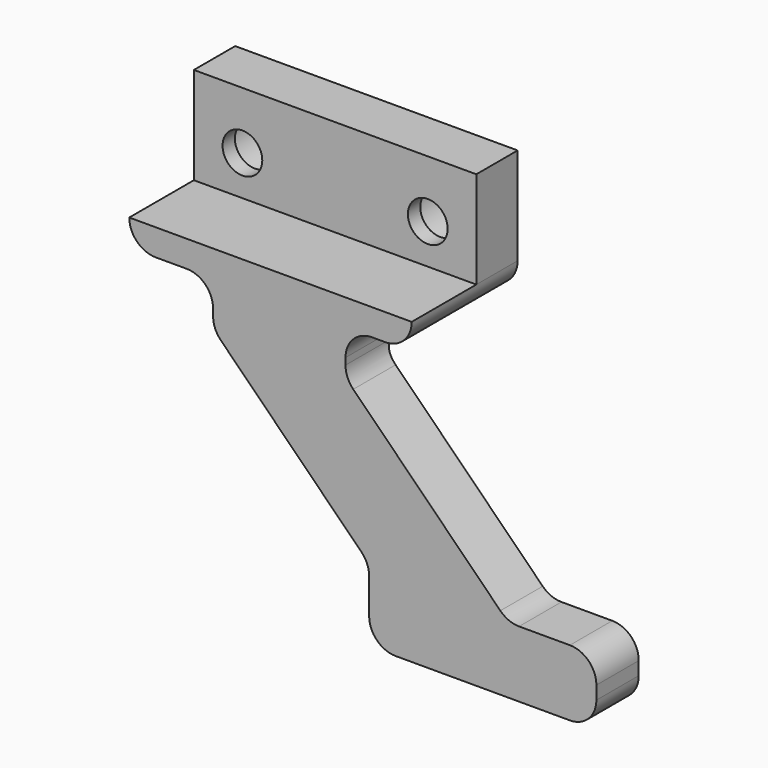
from build123d import *

# Parameters (mm, degrees)
F1_DEPTH = 15
F2_R     = 3.5
F3_DEPTH = 4.1
F4_R     = 2.25
F5_DEPTH = 25
F6_W     = 9.15
F6_H     = 11
F7_DEPTH = 52.92131


with BuildPart() as f1:
    # F0 (on Front) → F1 (new body)
    with BuildSketch(Plane.XZ):
        with BuildLine():
            Line((32, 0), (0, 0))
            Line((0, 0), (0, -11))
            ThreePointArc((0, -11), (0.87868, -13.12132), (3, -14))
            Line((3, -14), (6.5, -14))
            ThreePointArc((6.5, -14), (8.62132, -14.87868), (9.5, -17))
            Line((9.5, -17), (9.5, -17.757359))
            ThreePointArc((9.5, -17.757359), (9.728361, -18.90541), (10.37868, -19.87868))
            Line((10.37868, -19.87868), (26.29899, -35.79899))
            ThreePointArc((26.29899, -35.79899), (26.949308, -36.77226), (27.17767, -37.92031))
            Line((27.17767, -37.92031), (27.17767, -41.92031))
            ThreePointArc((27.17767, -41.92031), (28.056349, -44.041631), (30.17767, -44.92031))
            Line((30.17767, -44.92031), (49.92031, -44.92031))
            ThreePointArc((49.92031, -44.92031), (52.041631, -44.041631), (52.92031, -41.92031))
            Line((52.92031, -41.92031), (52.92031, -40.42031))
            ThreePointArc((52.92031, -40.42031), (52.041631, -38.29899), (49.92031, -37.42031))
            Line((49.92031, -37.42031), (44.162951, -37.42031))
            ThreePointArc((44.162951, -37.42031), (43.014901, -37.191949), (42.041631, -36.541631))
            Line((42.041631, -36.541631), (25.37868, -19.87868))
            ThreePointArc((25.37868, -19.87868), (24.728361, -18.90541), (24.5, -17.757359))
            Line((24.5, -17.757359), (24.5, -17))
            ThreePointArc((24.5, -17), (25.37868, -14.87868), (27.5, -14))
            Line((27.5, -14), (29, -14))
            ThreePointArc((29, -14), (31.12132, -13.12132), (32, -11))
            Line((32, -11), (32, 0))
        make_face()
    extrude(amount=F1_DEPTH)

    # F2 (on face) → F3 (cut)
    with BuildSketch(Plane.XZ.offset(15)):
        with Locations((26.5, -6.5)):
            Circle(F2_R)
        with Locations((5.5, -6.5)):
            Circle(F2_R)
    extrude(amount=-F3_DEPTH, mode=Mode.SUBTRACT)

    # F4 (on face) → F5 (cut)
    with BuildSketch(Plane.XZ.offset(15)):
        with Locations((5.5, -6.5)):
            Circle(F4_R)
        with Locations((26.5, -6.5)):
            Circle(F4_R)
    extrude(amount=-F5_DEPTH, mode=Mode.SUBTRACT)

    # F6 (on face) → F7 (cut, through all)
    with BuildSketch(Plane(origin=(0, 0, 0), x_dir=(0, -1, 0), z_dir=(-1, 0, 0))):
        with Locations((4.575, -5.5)):
            Rectangle(F6_W, F6_H)
        with BuildLine():
            ThreePointArc((6, -45), (6.87868, -47.12132), (9, -48))
            Line((9, -48), (15, -48))
            Line((15, -48), (15, -16))
            Line((15, -16), (9, -16))
            ThreePointArc((9, -16), (6.87868, -16.87868), (6, -19))
            Line((6, -19), (6, -45))
        make_face()
    extrude(amount=-F7_DEPTH, mode=Mode.SUBTRACT)


with BuildPart() as f8_1:
    # F8: instance of F1
    add(f1.part.mirror(Plane.XZ))


solid = f8_1.part
